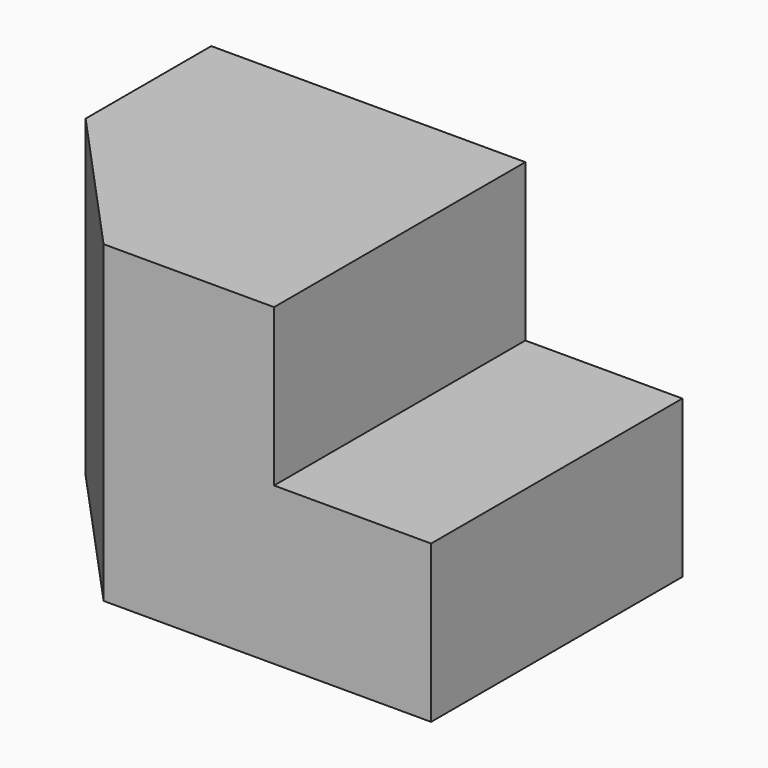
from build123d import *

# Parameters (mm, degrees)
F1_DEPTH = 20
F2_W     = 20
F2_H     = 10
F3_DEPTH = 10


with BuildPart() as f1:
    # F0 (on Top) → F1 (new body)
    with BuildSketch(Plane.XY):
        Polygon((0, 10), (0, 0), (9.143958, -10), (20, -10), (20, 10), align=None)
    extrude(amount=F1_DEPTH)

    # F2 (on face) → F3 (join)
    with BuildSketch(Plane.YZ.offset(20)):
        with Locations((0, 5)):
            Rectangle(F2_W, F2_H)
    extrude(amount=F3_DEPTH)


solid = f1.part
